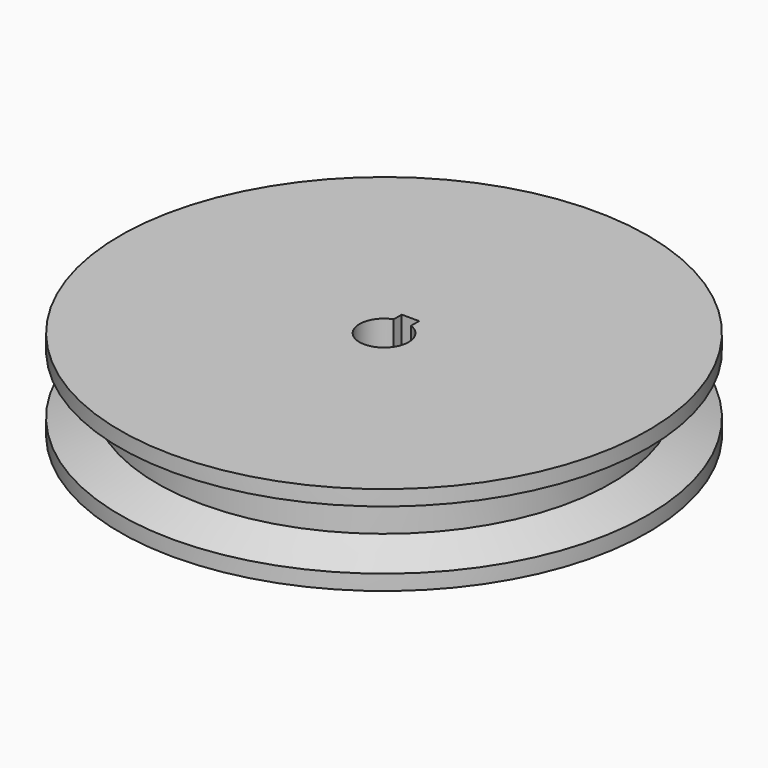
from build123d import *

# Parameters (mm, degrees)
PAD_DEPTH = 8.5


with BuildPart() as part:
    # Sketch → Pad (new body, symmetric)
    with BuildSketch(Plane.XY):
        with BuildLine():
            ThreePointArc((0, -4.65), (4.573728, -0.838758), (1.65, 4.347413))
            Line((1.65, 6.25), (1.65, 4.347413))
            Line((0, 6.25), (1.65, 6.25))
            Line((0, 50), (0, 6.25))
            ThreePointArc((0, -50), (50, 0), (0, 50))
            Line((0, -4.65), (0, -50))
        make_face()
    pad = extrude(amount=PAD_DEPTH, both=True)

    # Mirrored: Pad across Sketch V_Axis
    add(pad.mirror(Plane(origin=(0, 0, 0), x_dir=(0, 0, 1), z_dir=(1, 0, 0))))

    # Sketch001 → Groove (revolve, cut)
    with BuildSketch(Plane.YZ):
        Polygon((50, 0), (50, 5.6), (43, 2.6), (43, 0), align=None)
    groove = revolve(axis=Axis((0, 0, 0), (0, 0, 1)), mode=Mode.SUBTRACT)

    # Mirrored001: Groove across Sketch001 H_Axis
    add(groove.mirror(Plane.XY), mode=Mode.SUBTRACT)


solid = part.part
